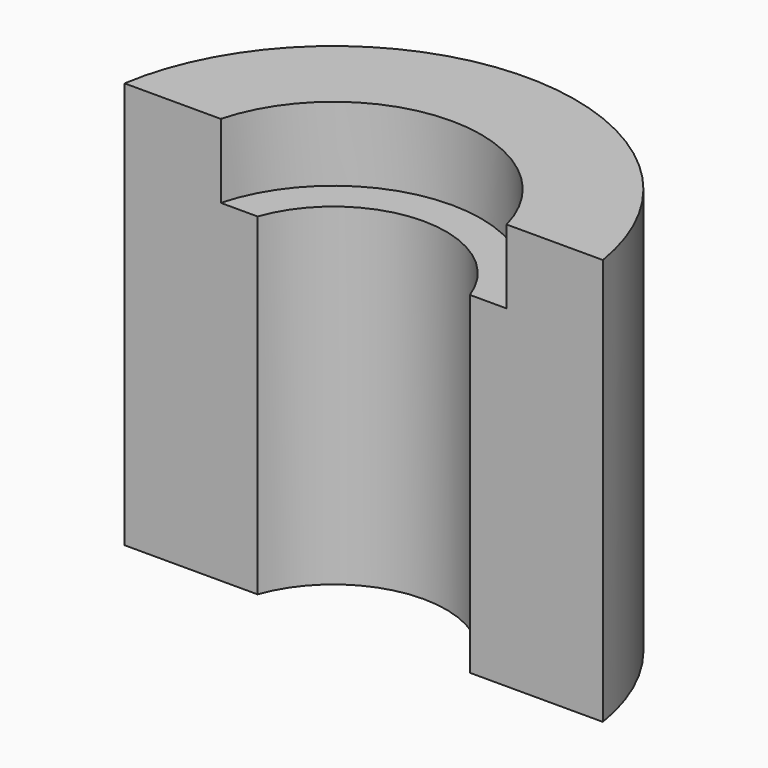
from build123d import *

# Parameters (mm, degrees)
F1_DEPTH = 11
F3_DEPTH = 2


with BuildPart() as f1:
    # F0 (on Top) → F1 (new body)
    with BuildSketch(Plane.XY):
        with BuildLine():
            ThreePointArc((-2.8726077003, 1.025), (0, 3.05), (2.8726077003, 1.025))
            Line((2.8726077003, 1.025), (6.4693025126, 1.025))
            ThreePointArc((6.4693025126, 1.025), (0, 6.55), (-6.4693025126, 1.025))
            Line((-6.4693025126, 1.025), (-2.8726077003, 1.025))
        make_face()
    extrude(amount=F1_DEPTH)

    # F2 (on face) → F3 (cut, through all)
    with BuildSketch(Plane.XY.offset(11)):
        with BuildLine():
            Line((2.8726077003, 1.025), (3.866442163, 1.025))
            ThreePointArc((3.866442163, 1.025), (0, 4), (-3.866442163, 1.025))
            Line((-3.866442163, 1.025), (-2.8726077003, 1.025))
            ThreePointArc((-2.8726077003, 1.025), (0, 3.05), (2.8726077003, 1.025))
        make_face()
    extrude(amount=-F3_DEPTH, mode=Mode.SUBTRACT)


solid = f1.part
